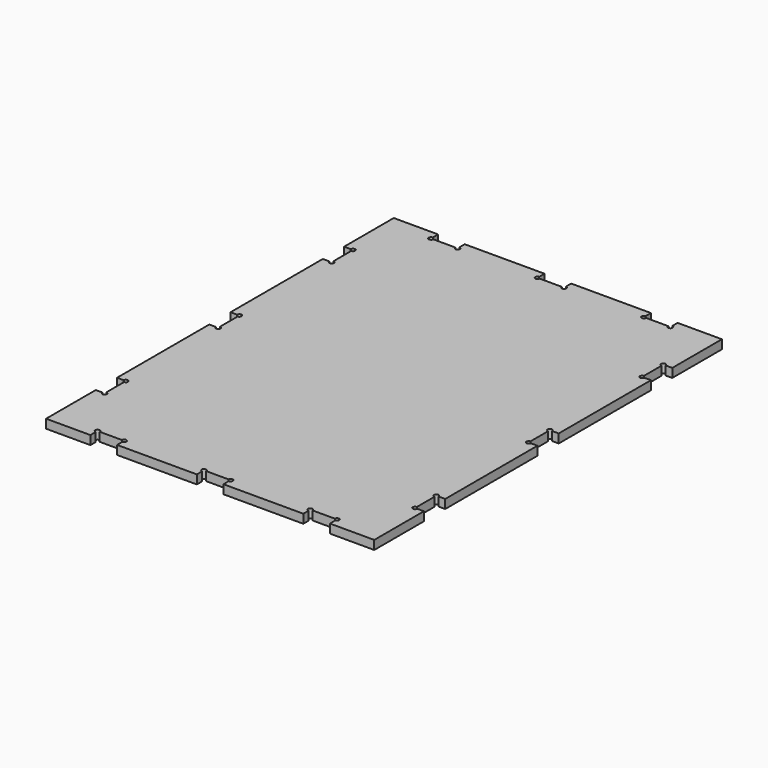
from build123d import *

# Parameters (mm, degrees)
F1_DEPTH = 6.35


with BuildPart() as f1:
    # F0 (on Top) → F1 (new body)
    with BuildSketch(Plane.XY):
        with BuildLine():
            Line((-54.6100006601, 184.3987628429), (-86.3600006601, 184.3987628429))
            Line((-86.3600006601, 184.3987628429), (-86.3600006601, 139.9487628429))
            Line((-86.3600006601, 139.9487628429), (-81.5975006601, 139.9487628429))
            ThreePointArc((-81.5975006601, 139.9487628429), (-80.0100006601, 141.5362628429), (-78.4225006601, 139.9487628429))
            ThreePointArc((-78.4225006601, 139.9487628429), (-78.887468645, 138.8262308277), (-80.0100006601, 138.3612628429))
            Line((-80.0100006601, 138.3612628429), (-80.0100006601, 122.4862628429))
            ThreePointArc((-80.0100006601, 122.4862628429), (-78.887468645, 122.021294858), (-78.4225006601, 120.8987628429))
            ThreePointArc((-78.4225006601, 120.8987628429), (-80.0100006601, 119.3112628429), (-81.5975006601, 120.8987628429))
            Line((-81.5975006601, 120.8987628429), (-86.3600006601, 120.8987628429))
            Line((-86.3600006601, 120.8987628429), (-86.3600006601, 38.3487628429))
            Line((-86.3600006601, 38.3487628429), (-81.5975006601, 38.3487628429))
            ThreePointArc((-81.5975006601, 38.3487628429), (-80.0100006601, 39.9362628429), (-78.4225006601, 38.3487628429))
            ThreePointArc((-78.4225006601, 38.3487628429), (-78.887468645, 37.2262308277), (-80.0100006601, 36.7612628429))
            Line((-80.0100006601, 36.7612628429), (-80.0100006601, 20.8862628429))
            ThreePointArc((-80.0100006601, 20.8862628429), (-78.887468645, 20.421294858), (-78.4225006601, 19.2987628429))
            ThreePointArc((-78.4225006601, 19.2987628429), (-80.0100006601, 17.7112628429), (-81.5975006601, 19.2987628429))
            Line((-81.5975006601, 19.2987628429), (-86.3600006601, 19.2987628429))
            Line((-86.3600006601, 19.2987628429), (-86.3600006601, -63.2512371571))
            Line((-86.3600006601, -63.2512371571), (-81.5975006601, -63.2512371571))
            ThreePointArc((-81.5975006601, -63.2512371571), (-80.0100006601, -61.6637371571), (-78.4225006601, -63.2512371571))
            ThreePointArc((-78.4225006601, -63.2512371571), (-78.887468645, -64.3737691723), (-80.0100006601, -64.8387371571))
            Line((-80.0100006601, -64.8387371571), (-80.0100006601, -80.7137371571))
            ThreePointArc((-80.0100006601, -80.7137371571), (-78.887468645, -81.178705142), (-78.4225006601, -82.3012371571))
            ThreePointArc((-78.4225006601, -82.3012371571), (-80.0100006601, -83.8887371571), (-81.5975006601, -82.3012371571))
            Line((-81.5975006601, -82.3012371571), (-86.3600006601, -82.3012371571))
            Line((-86.3600006601, -82.3012371571), (-86.3600006601, -126.7512371571))
            Line((-86.3600006601, -126.7512371571), (-54.6100006601, -126.7512371571))
            Line((-54.6100006601, -126.7512371571), (-54.6100006601, -121.9887371571))
            ThreePointArc((-54.6100006601, -121.9887371571), (-55.7325326753, -119.278705142), (-53.0225006601, -120.4012371571))
            Line((-53.0225006601, -120.4012371571), (-37.1475006601, -120.4012371571))
            ThreePointArc((-37.1475006601, -120.4012371571), (-35.5600006601, -118.8137371571), (-33.9725006601, -120.4012371571))
            ThreePointArc((-33.9725006601, -120.4012371571), (-34.437468645, -121.5237691723), (-35.5600006601, -121.9887371571))
            Line((-35.5600006601, -121.9887371571), (-35.5600006601, -126.7512371571))
            Line((-35.5600006601, -126.7512371571), (21.5899993399, -126.7512371571))
            Line((21.5899993399, -126.7512371571), (21.5899993399, -121.9887371571))
            ThreePointArc((21.5899993399, -121.9887371571), (20.4674673247, -119.278705142), (23.1774993399, -120.4012371571))
            Line((23.1774993399, -120.4012371571), (39.0524993399, -120.4012371571))
            ThreePointArc((39.0524993399, -120.4012371571), (40.6399993399, -118.8137371571), (42.2274993399, -120.4012371571))
            ThreePointArc((42.2274993399, -120.4012371571), (41.762531355, -121.5237691723), (40.6399993399, -121.9887371571))
            Line((40.6399993399, -121.9887371571), (40.6399993399, -126.7512371571))
            Line((40.6399993399, -126.7512371571), (97.7899993399, -126.7512371571))
            Line((97.7899993399, -126.7512371571), (97.7899993399, -121.9887371571))
            ThreePointArc((97.7899993399, -121.9887371571), (96.6674673247, -119.278705142), (99.3774993399, -120.4012371571))
            Line((99.3774993399, -120.4012371571), (115.2524993399, -120.4012371571))
            ThreePointArc((115.2524993399, -120.4012371571), (116.8399993399, -118.8137371571), (118.4274993399, -120.4012371571))
            ThreePointArc((118.4274993399, -120.4012371571), (117.962531355, -121.5237691723), (116.8399993399, -121.9887371571))
            Line((116.8399993399, -121.9887371571), (116.8399993399, -126.7512371571))
            Line((116.8399993399, -126.7512371571), (148.5899993399, -126.7512371571))
            Line((148.5899993399, -126.7512371571), (148.5899993399, -82.3012371571))
            Line((148.5899993399, -82.3012371571), (143.8274993399, -82.3012371571))
            ThreePointArc((143.8274993399, -82.3012371571), (141.1174673247, -83.4237691723), (142.2399993399, -80.7137371571))
            Line((142.2399993399, -80.7137371571), (142.2399993399, -64.8387371571))
            ThreePointArc((142.2399993399, -64.8387371571), (141.1174673247, -62.128705142), (143.8274993399, -63.2512371571))
            Line((143.8274993399, -63.2512371571), (148.5899993399, -63.2512371571))
            Line((148.5899993399, -63.2512371571), (148.5899993399, 19.2987628429))
            Line((148.5899993399, 19.2987628429), (143.8274993399, 19.2987628429))
            ThreePointArc((143.8274993399, 19.2987628429), (141.1174673247, 18.1762308277), (142.2399993399, 20.8862628429))
            Line((142.2399993399, 20.8862628429), (142.2399993399, 36.7612628429))
            ThreePointArc((142.2399993399, 36.7612628429), (141.1174673247, 39.471294858), (143.8274993399, 38.3487628429))
            Line((143.8274993399, 38.3487628429), (148.5899993399, 38.3487628429))
            Line((148.5899993399, 38.3487628429), (148.5899993399, 120.8987628429))
            Line((148.5899993399, 120.8987628429), (143.8274993399, 120.8987628429))
            ThreePointArc((143.8274993399, 120.8987628429), (141.1174673247, 119.7762308277), (142.2399993399, 122.4862628429))
            Line((142.2399993399, 122.4862628429), (142.2399993399, 138.3612628429))
            ThreePointArc((142.2399993399, 138.3612628429), (141.1174673247, 141.071294858), (143.8274993399, 139.9487628429))
            Line((143.8274993399, 139.9487628429), (148.5899993399, 139.9487628429))
            Line((148.5899993399, 139.9487628429), (148.5899993399, 184.3987628429))
            Line((148.5899993399, 184.3987628429), (116.8399993399, 184.3987628429))
            Line((116.8399993399, 184.3987628429), (116.8399993399, 179.6362628429))
            ThreePointArc((116.8399993399, 179.6362628429), (117.962531355, 179.171294858), (118.4274993399, 178.0487628429))
            ThreePointArc((118.4274993399, 178.0487628429), (116.8399993399, 176.4612628429), (115.2524993399, 178.0487628429))
            Line((115.2524993399, 178.0487628429), (99.3774993399, 178.0487628429))
            ThreePointArc((99.3774993399, 178.0487628429), (96.6674673247, 176.9262308277), (97.7899993399, 179.6362628429))
            Line((97.7899993399, 179.6362628429), (97.7899993399, 184.3987628429))
            Line((97.7899993399, 184.3987628429), (40.6399993399, 184.3987628429))
            Line((40.6399993399, 184.3987628429), (40.6399993399, 179.6362628429))
            ThreePointArc((40.6399993399, 179.6362628429), (41.762531355, 179.171294858), (42.2274993399, 178.0487628429))
            ThreePointArc((42.2274993399, 178.0487628429), (40.6399993399, 176.4612628429), (39.0524993399, 178.0487628429))
            Line((39.0524993399, 178.0487628429), (23.1774993399, 178.0487628429))
            ThreePointArc((23.1774993399, 178.0487628429), (20.4674673247, 176.9262308277), (21.5899993399, 179.6362628429))
            Line((21.5899993399, 179.6362628429), (21.5899993399, 184.3987628429))
            Line((21.5899993399, 184.3987628429), (-35.5600006601, 184.3987628429))
            Line((-35.5600006601, 184.3987628429), (-35.5600006601, 179.6362628429))
            ThreePointArc((-35.5600006601, 179.6362628429), (-34.437468645, 179.171294858), (-33.9725006601, 178.0487628429))
            ThreePointArc((-33.9725006601, 178.0487628429), (-35.5600006601, 176.4612628429), (-37.1475006601, 178.0487628429))
            Line((-37.1475006601, 178.0487628429), (-53.0225006601, 178.0487628429))
            ThreePointArc((-53.0225006601, 178.0487628429), (-55.7325326753, 176.9262308277), (-54.6100006601, 179.6362628429))
            Line((-54.6100006601, 179.6362628429), (-54.6100006601, 184.3987628429))
        make_face()
    extrude(amount=F1_DEPTH)


solid = f1.part
